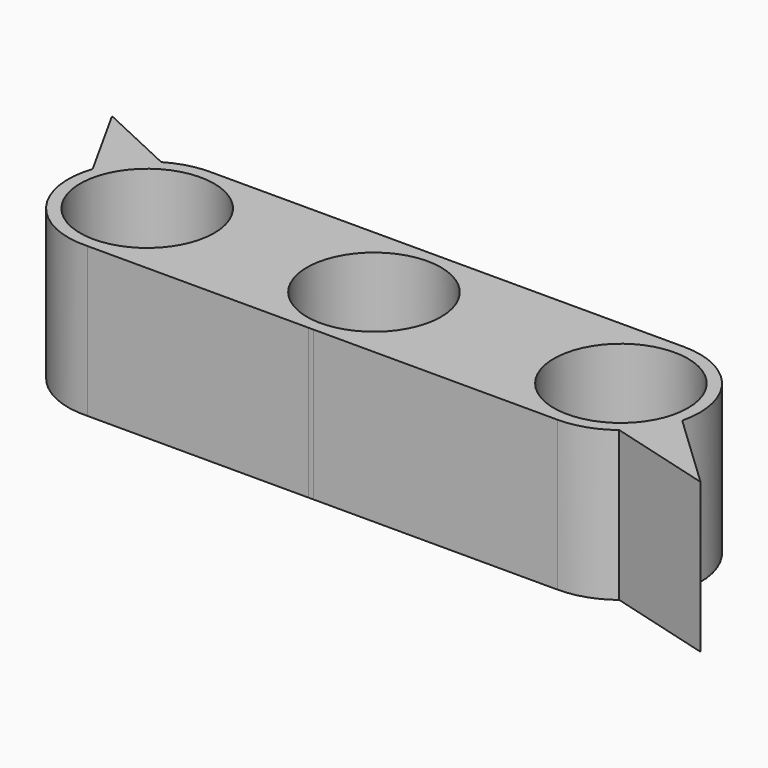
from build123d import *

# Parameters (mm, degrees)
F0_R     = 11.2
F1_DEPTH = 25


with BuildPart() as f1:
    # F0 (on Top) → F1 (new body)
    with BuildSketch(Plane.XY):
        with BuildLine():
            ThreePointArc((0.4090575961, -13.1936602913), (9.4773297998, -9.1880476635), (13.2, 0))
            ThreePointArc((13.2, 0), (9.4742681583, 9.1912046471), (0.4002662325, 13.1939299279))
            Line((0.4002662325, 13.1939299279), (-0.4041860828, 13.193810428))
            ThreePointArc((-0.4041860828, 13.193810428), (-13.199999238, 0.0044852933), (-0.4131523691, -13.1935327005))
            Line((-0.4131523691, -13.1935327005), (0.4090575961, -13.1936602913))
        make_face()
        Circle(F0_R, mode=Mode.SUBTRACT)
        with BuildLine():
            ThreePointArc((0.4002662325, 13.1939299279), (9.4742681583, 9.1912046471), (13.2, 0))
            ThreePointArc((13.2, 0), (9.4773297998, -9.1880476635), (0.4090575961, -13.1936602913))
            Line((0.4090575961, -13.1936602913), (41.261852317, -13.1999998411))
            ThreePointArc((41.261852317, -13.1999998411), (45.5296218182, -12.4917422051), (49.3392012291, -10.441720228))
            ThreePointArc((49.3392012291, -10.441720228), (52.3137660961, -7.2208361473), (54.069311486, -3.2033505164))
            ThreePointArc((54.069311486, -3.2033505164), (51.6682055045, 8.123450097), (41.2619398615, 13.1999998544))
            Line((41.2619398615, 13.1999998544), (0.4002662325, 13.1939299279))
        make_face()
        with Locations((41.2639006972, 0)):
            Circle(F0_R, mode=Mode.SUBTRACT)
        with BuildLine():
            Line((-0.4041860828, 13.193810428), (0.4002662325, 13.1939299279))
            ThreePointArc((0.4002662325, 13.1939299279), (-0.0019608357, 13.1999998544), (-0.4041860828, 13.193810428))
        make_face()
        with BuildLine():
            ThreePointArc((-0.4131523691, -13.1935327005), (-0.0020483802, -13.1999998411), (0.4090575961, -13.1936602913))
            Line((0.4090575961, -13.1936602913), (-0.4131523691, -13.1935327005))
        make_face()
        with BuildLine():
            ThreePointArc((-0.4131523691, -13.1935327005), (-13.199999238, 0.0044852933), (-0.4041860828, 13.193810428))
            Line((-0.4041860828, 13.193810428), (-37.351711168, 13.1883219412))
            ThreePointArc((-37.351711168, 13.1883219412), (-41.126980467, 12.8011981563), (-44.6360755538, 11.3559387412))
            ThreePointArc((-44.6360755538, 11.3559387412), (-48.159813921, 8.3136308843), (-50.4082635652, 4.2372546291))
            ThreePointArc((-50.4082635652, 4.2372546291), (-48.4668464085, -7.9199870797), (-37.3395040624, -13.1878024575))
            Line((-37.3395040624, -13.1878024575), (-0.4131523691, -13.1935327005))
        make_face()
        with Locations((-37.9068367183, 0)):
            Circle(F0_R, mode=Mode.SUBTRACT)
        with BuildLine():
            Line((66.792446271, -15.2703531355), (54.069311486, -3.2033505164))
            ThreePointArc((54.069311486, -3.2033505164), (52.3137660961, -7.2208361473), (49.3392012291, -10.441720228))
            Line((49.3392012291, -10.441720228), (66.792446271, -15.2703531355))
        make_face()
        with BuildLine():
            ThreePointArc((-50.4082635652, 4.2372546291), (-48.159813921, 8.3136308843), (-44.6360755538, 11.3559387412))
            Line((-44.6360755538, 11.3559387412), (-57.7694587409, 17.4847040325))
            Line((-57.7694587409, 17.4847040325), (-50.4082635652, 4.2372546291))
        make_face()
    extrude(amount=F1_DEPTH)


solid = f1.part
